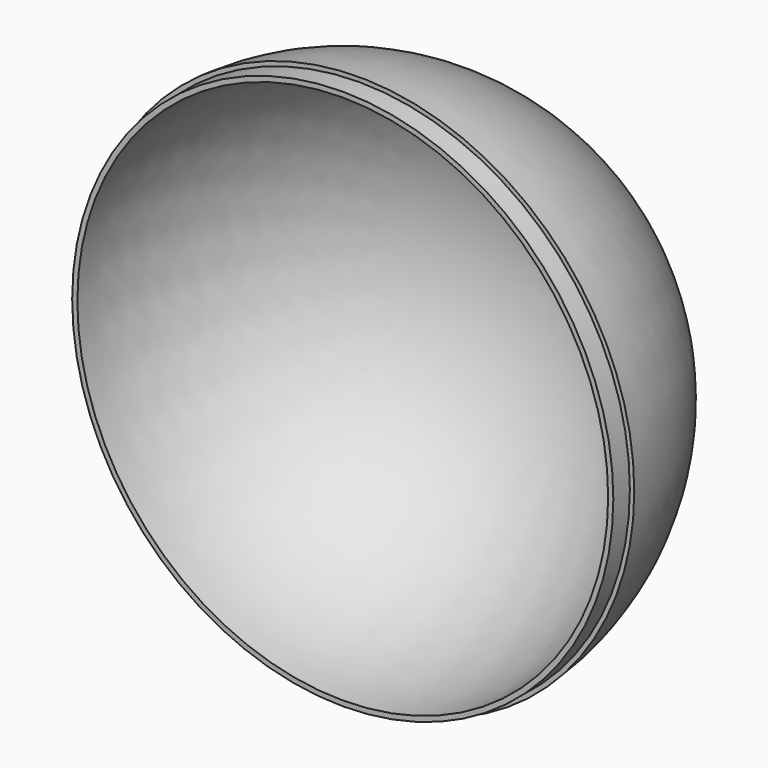
from build123d import *


with BuildPart() as f1:
    # F0 (on Top) → F1 (revolve)
    with BuildSketch(Plane.XY):
        with BuildLine():
            Line((39.25, 3), (39.887341, 3))
            ThreePointArc((39.887341, 3), (27.202941, 29.325757), (0, 40))
            Line((0, 40), (0, 38.5))
            ThreePointArc((0, 38.5), (27.223611, 27.223611), (38.5, 0))
            Line((38.5, 0), (39.25, 0))
            Line((39.25, 0), (39.25, 3))
        make_face()
    revolve(axis=Axis((0, 24.036143, 0), (0, 1, 0)))


solid = f1.part
